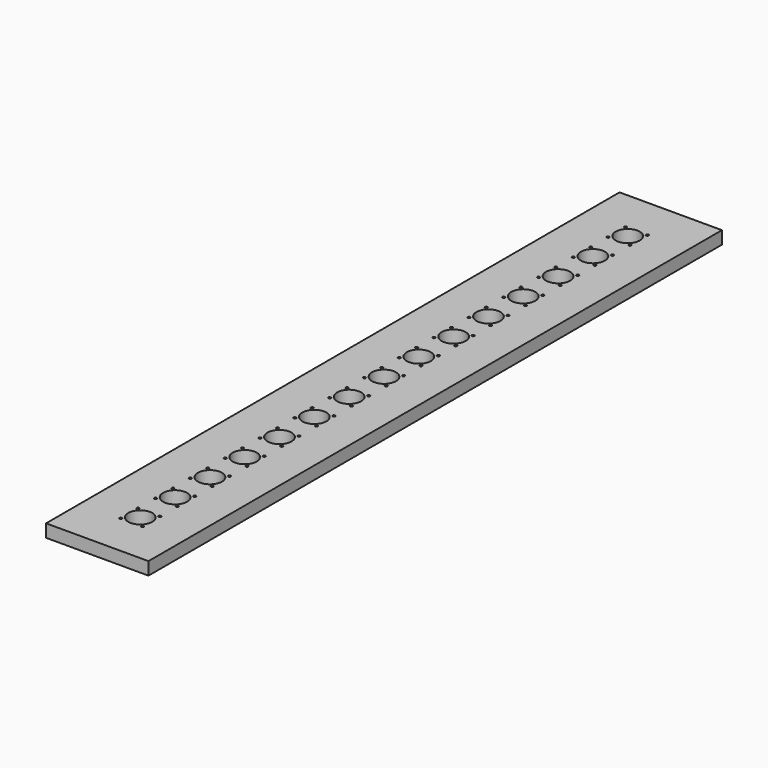
from build123d import *

# Parameters (mm, degrees)
F0_W     = 200
F0_H     = 1400
F0_R     = 2.5
F0_R_2   = 23.5
F1_DEPTH = 25


with BuildPart() as f1:
    # F0 (on Top) → F1 (new body)
    with BuildSketch(Plane.XY):
        Rectangle(F0_W, F0_H)
        with Locations((-21.213203, -616.213203)):
            Circle(F0_R, mode=Mode.SUBTRACT)
        with Locations((-21.213203, -573.786797)):
            Circle(F0_R, mode=Mode.SUBTRACT)
        with Locations((-21.213203, -531.213203)):
            Circle(F0_R, mode=Mode.SUBTRACT)
        with Locations((-21.213203, -488.786797)):
            Circle(F0_R, mode=Mode.SUBTRACT)
        with Locations((-21.213203, -446.213203)):
            Circle(F0_R, mode=Mode.SUBTRACT)
        with Locations((-21.213203, -403.786797)):
            Circle(F0_R, mode=Mode.SUBTRACT)
        with Locations((-21.213203, -361.213203)):
            Circle(F0_R, mode=Mode.SUBTRACT)
        with Locations((-21.213203, -318.786797)):
            Circle(F0_R, mode=Mode.SUBTRACT)
        with Locations((-21.213203, -276.213203)):
            Circle(F0_R, mode=Mode.SUBTRACT)
        with Locations((-21.213203, -233.786797)):
            Circle(F0_R, mode=Mode.SUBTRACT)
        with Locations((-21.213203, -191.213203)):
            Circle(F0_R, mode=Mode.SUBTRACT)
        with Locations((-21.213203, -148.786797)):
            Circle(F0_R, mode=Mode.SUBTRACT)
        with Locations((-21.213203, -106.213203)):
            Circle(F0_R, mode=Mode.SUBTRACT)
        with Locations((-21.213203, -63.786797)):
            Circle(F0_R, mode=Mode.SUBTRACT)
        with Locations((-21.213203, -21.213203)):
            Circle(F0_R, mode=Mode.SUBTRACT)
        with Locations((21.213203, -616.213203)):
            Circle(F0_R, mode=Mode.SUBTRACT)
        with Locations((0, -595)):
            Circle(F0_R_2, mode=Mode.SUBTRACT)
        with Locations((21.213203, -573.786797)):
            Circle(F0_R, mode=Mode.SUBTRACT)
        with Locations((21.213203, -531.213203)):
            Circle(F0_R, mode=Mode.SUBTRACT)
        with Locations((0, -510)):
            Circle(F0_R_2, mode=Mode.SUBTRACT)
        with Locations((21.213203, -488.786797)):
            Circle(F0_R, mode=Mode.SUBTRACT)
        with Locations((21.213203, -446.213203)):
            Circle(F0_R, mode=Mode.SUBTRACT)
        with Locations((0, -425)):
            Circle(F0_R_2, mode=Mode.SUBTRACT)
        with Locations((21.213203, -403.786797)):
            Circle(F0_R, mode=Mode.SUBTRACT)
        with Locations((21.213203, -361.213203)):
            Circle(F0_R, mode=Mode.SUBTRACT)
        with Locations((0, -340)):
            Circle(F0_R_2, mode=Mode.SUBTRACT)
        with Locations((21.213203, -318.786797)):
            Circle(F0_R, mode=Mode.SUBTRACT)
        with Locations((21.213203, -276.213203)):
            Circle(F0_R, mode=Mode.SUBTRACT)
        with Locations((0, -255)):
            Circle(F0_R_2, mode=Mode.SUBTRACT)
        with Locations((21.213203, -233.786797)):
            Circle(F0_R, mode=Mode.SUBTRACT)
        with Locations((21.213203, -191.213203)):
            Circle(F0_R, mode=Mode.SUBTRACT)
        with Locations((0, -170)):
            Circle(F0_R_2, mode=Mode.SUBTRACT)
        with Locations((21.213203, -148.786797)):
            Circle(F0_R, mode=Mode.SUBTRACT)
        with Locations((21.213203, -106.213203)):
            Circle(F0_R, mode=Mode.SUBTRACT)
        with Locations((0, -85)):
            Circle(F0_R_2, mode=Mode.SUBTRACT)
        with Locations((21.213203, -63.786797)):
            Circle(F0_R, mode=Mode.SUBTRACT)
        with Locations((21.213203, -21.213203)):
            Circle(F0_R, mode=Mode.SUBTRACT)
        with Locations((-21.213203, 21.213203)):
            Circle(F0_R, mode=Mode.SUBTRACT)
        with Locations((-21.213203, 63.786797)):
            Circle(F0_R, mode=Mode.SUBTRACT)
        with Locations((-21.213203, 106.213203)):
            Circle(F0_R, mode=Mode.SUBTRACT)
        with Locations((-21.213203, 148.786797)):
            Circle(F0_R, mode=Mode.SUBTRACT)
        with Locations((-21.213203, 191.213203)):
            Circle(F0_R, mode=Mode.SUBTRACT)
        with Locations((-21.213203, 233.786797)):
            Circle(F0_R, mode=Mode.SUBTRACT)
        with Locations((-21.213203, 276.213203)):
            Circle(F0_R, mode=Mode.SUBTRACT)
        with Locations((-21.213203, 318.786797)):
            Circle(F0_R, mode=Mode.SUBTRACT)
        with Locations((-21.213203, 361.213203)):
            Circle(F0_R, mode=Mode.SUBTRACT)
        with Locations((-21.213203, 403.786797)):
            Circle(F0_R, mode=Mode.SUBTRACT)
        with Locations((-21.213203, 446.213203)):
            Circle(F0_R, mode=Mode.SUBTRACT)
        with Locations((-21.213203, 488.786797)):
            Circle(F0_R, mode=Mode.SUBTRACT)
        with Locations((-21.213203, 531.213203)):
            Circle(F0_R, mode=Mode.SUBTRACT)
        with Locations((-21.213203, 573.786797)):
            Circle(F0_R, mode=Mode.SUBTRACT)
        with Locations((-21.213203, 616.213203)):
            Circle(F0_R, mode=Mode.SUBTRACT)
        Circle(F0_R_2, mode=Mode.SUBTRACT)
        with Locations((0, 85)):
            Circle(F0_R_2, mode=Mode.SUBTRACT)
        with Locations((21.213203, 21.213203)):
            Circle(F0_R, mode=Mode.SUBTRACT)
        with Locations((21.213203, 63.786797)):
            Circle(F0_R, mode=Mode.SUBTRACT)
        with Locations((0, 170)):
            Circle(F0_R_2, mode=Mode.SUBTRACT)
        with Locations((21.213203, 106.213203)):
            Circle(F0_R, mode=Mode.SUBTRACT)
        with Locations((21.213203, 148.786797)):
            Circle(F0_R, mode=Mode.SUBTRACT)
        with Locations((0, 255)):
            Circle(F0_R_2, mode=Mode.SUBTRACT)
        with Locations((21.213203, 191.213203)):
            Circle(F0_R, mode=Mode.SUBTRACT)
        with Locations((21.213203, 233.786797)):
            Circle(F0_R, mode=Mode.SUBTRACT)
        with Locations((0, 340)):
            Circle(F0_R_2, mode=Mode.SUBTRACT)
        with Locations((21.213203, 276.213203)):
            Circle(F0_R, mode=Mode.SUBTRACT)
        with Locations((21.213203, 318.786797)):
            Circle(F0_R, mode=Mode.SUBTRACT)
        with Locations((0, 425)):
            Circle(F0_R_2, mode=Mode.SUBTRACT)
        with Locations((21.213203, 361.213203)):
            Circle(F0_R, mode=Mode.SUBTRACT)
        with Locations((21.213203, 403.786797)):
            Circle(F0_R, mode=Mode.SUBTRACT)
        with Locations((0, 510)):
            Circle(F0_R_2, mode=Mode.SUBTRACT)
        with Locations((21.213203, 446.213203)):
            Circle(F0_R, mode=Mode.SUBTRACT)
        with Locations((21.213203, 488.786797)):
            Circle(F0_R, mode=Mode.SUBTRACT)
        with Locations((0, 595)):
            Circle(F0_R_2, mode=Mode.SUBTRACT)
        with Locations((21.213203, 531.213203)):
            Circle(F0_R, mode=Mode.SUBTRACT)
        with Locations((21.213203, 573.786797)):
            Circle(F0_R, mode=Mode.SUBTRACT)
        with Locations((21.213203, 616.213203)):
            Circle(F0_R, mode=Mode.SUBTRACT)
    extrude(amount=F1_DEPTH)


solid = f1.part
